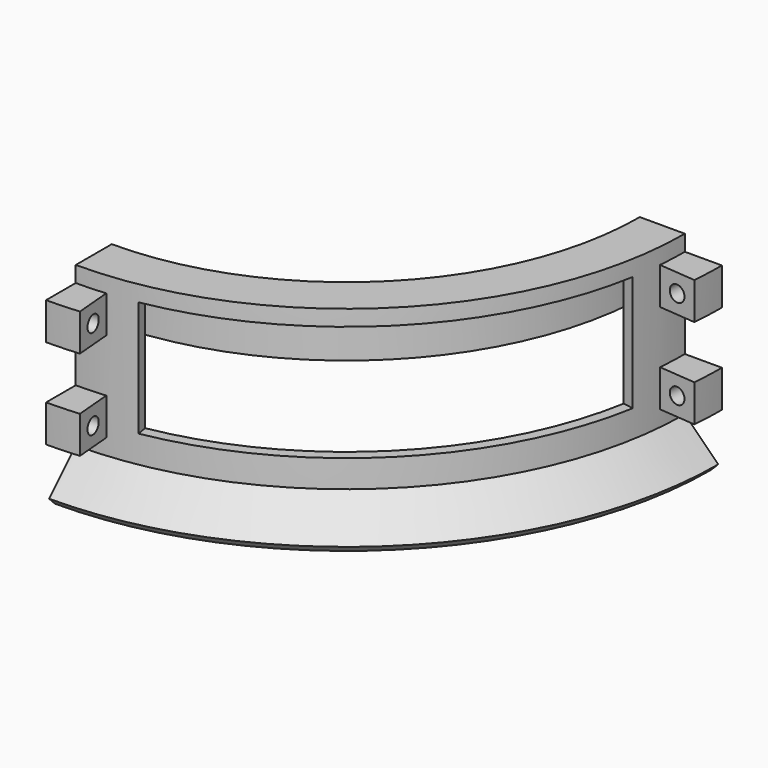
from build123d import *

# Parameters (mm, degrees)
F1_ANGLE       = 90
F2_W           = 35
F2_H           = 35
F2_R           = 7.5
F3_ANGLE       = 5
F4_ANGLE_START = 270
F4_ANGLE       = 5
F5_W           = 10
F5_H           = 109.1421356237
F6_ANGLE_START = 280
F6_ANGLE       = 70


with BuildPart() as f1:
    # F0 (on Front) → F1 (revolve)
    with BuildSketch(Plane.XZ):
        Polygon((0, -86.7003262881), (0, 63.2996737119), (-42.5, 63.2996737119), (-42.5, 3.2996737119), (-32.5, 3.2996737119), (-32.5, 48.2996737119), (-10, 48.2996737119), (-10, -90.8424619118), (24.4289321881, -125.2713940999), (31.5, -118.2003262881), align=None)
    revolve(axis=Axis((-319.5, 0, -5.3764432669), (0, 0, -1)), revolution_arc=F1_ANGLE)

    # F2 (on face) → F3 (revolve)
    with BuildSketch(Plane(origin=(-319.5, 0, 0), x_dir=(0, -1, 0), z_dir=(-1, 0, 0))):
        with Locations((337, 30.7996737119)):
            Rectangle(F2_W, F2_H)
        with Locations((337, 30.7996737119)):
            Circle(F2_R, mode=Mode.SUBTRACT)
        with Locations((337, -54.2003262881)):
            Rectangle(F2_W, F2_H)
        with Locations((337, -54.2003262881)):
            Circle(F2_R, mode=Mode.SUBTRACT)
    revolve(axis=Axis((-319.5, 0, 7.2890669107), (0, 0, 1)), revolution_arc=F3_ANGLE)

    # F2 (on face) → F4 (revolve)
    with BuildSketch(Plane(origin=(-319.5, 0, 0), x_dir=(0, -1, 0), z_dir=(-1, 0, 0)), mode=Mode.PRIVATE) as f4_sk:
        with Locations((337, 30.7996737119)):
            Rectangle(F2_W, F2_H)
        with Locations((337, 30.7996737119)):
            Circle(F2_R, mode=Mode.SUBTRACT)
        with Locations((337, -54.2003262881)):
            Rectangle(F2_W, F2_H)
        with Locations((337, -54.2003262881)):
            Circle(F2_R, mode=Mode.SUBTRACT)
    revolve(f4_sk.sketch.rotate(Axis((-319.5, 0, 63.2996737119), (0, 0, -1)), F4_ANGLE_START), axis=Axis((-319.5, 0, 63.2996737119), (0, 0, -1)), revolution_arc=F4_ANGLE)

    # F5 (on Front) → F6 (revolve, cut)
    with BuildSketch(Plane.XZ, mode=Mode.PRIVATE) as f6_sk:
        with Locations((-5, -6.2713940999)):
            Rectangle(F5_W, F5_H)
    revolve(f6_sk.sketch.rotate(Axis((-319.5, 0, -29.9057289958), (0, 0, 1)), F6_ANGLE_START), axis=Axis((-319.5, 0, -29.9057289958), (0, 0, 1)), revolution_arc=F6_ANGLE, mode=Mode.SUBTRACT)


solid = f1.part
